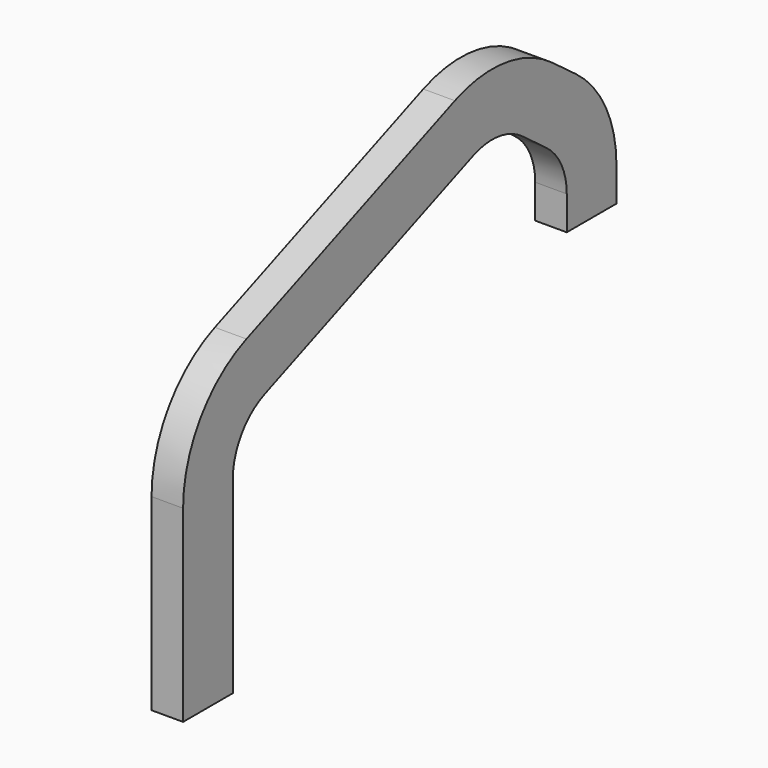
from build123d import *

# Parameters (mm, degrees)
F1_DEPTH = 12.7


with BuildPart() as f1:
    # F0 (on Right) → F1 (new body)
    with BuildSketch(Plane.YZ):
        with BuildLine():
            ThreePointArc((-127.4130486986, -23.8944376975), (-150.5555928046, -42.505234855), (-159.2704062288, -70.8952180447))
            Line((-159.2704062288, -70.8952180447), (-159.2704062288, -146.5982919273))
            Line((-159.2704062288, -146.5982919273), (-134.2704062288, -146.5982919273))
            Line((-134.2704062288, -146.5982919273), (-134.2704062288, -70.8952180447))
            Line((-134.2704062288, -70.8952180447), (-134.2704062288, -53.5434135268))
            Line((-134.2704062288, -53.5434135268), (-118.1528498499, -47.1161671181))
            Line((-118.1528498499, -47.1161671181), (-13.3015476427, -5.3042981397))
            Line((-13.3015476427, -5.3042981397), (0, 0))
            Line((0, 0), (11.4811224988, -8.5586549536))
            Line((11.4811224988, -8.5586549536), (23.4298202916, -17.4658660356))
            Line((23.4298202916, -17.4658660356), (33.7295937712, -25.143878993))
            Line((33.7295937712, -25.143878993), (33.7295937712, -37.9905601483))
            Line((33.7295937712, -37.9905601483), (33.7295937712, -51.5982919273))
            Line((33.7295937712, -51.5982919273), (58.7295937712, -51.5982919273))
            Line((58.7295937712, -51.5982919273), (58.7295937712, -37.9905601483))
            ThreePointArc((58.7295937712, -37.9905601483), (53.3545747633, -15.295602685), (38.371447753, 2.577780559))
            Line((38.371447753, 2.577780559), (26.4227499601, 11.4849916409))
            ThreePointArc((26.4227499601, 11.4849916409), (2.7689181611, 21.0859439695), (-22.5617464914, 17.9174312808))
            Line((-22.5617464914, 17.9174312808), (-127.4130486986, -23.8944376975))
        make_face()
        with BuildLine():
            Line((-134.2704062288, -53.5434135268), (-134.2704062288, -70.8952180447))
            ThreePointArc((-134.2704062288, -70.8952180447), (-129.8613306624, -56.5319063914), (-118.1528498499, -47.1161671181))
            Line((-118.1528498499, -47.1161671181), (-134.2704062288, -53.5434135268))
        make_face()
        with BuildLine():
            Line((0, 0), (-13.3015476427, -5.3042981397))
            ThreePointArc((-13.3015476427, -5.3042981397), (-0.4860335102, -3.7012561471), (11.4811224988, -8.5586549536))
            Line((11.4811224988, -8.5586549536), (0, 0))
        make_face()
        with BuildLine():
            Line((33.7295937712, -25.143878993), (23.4298202916, -17.4658660356))
            ThreePointArc((23.4298202916, -17.4658660356), (31.0102165656, -26.5085263329), (33.7295937712, -37.9905601483))
            Line((33.7295937712, -37.9905601483), (33.7295937712, -25.143878993))
        make_face()
    extrude(amount=F1_DEPTH)


solid = f1.part
